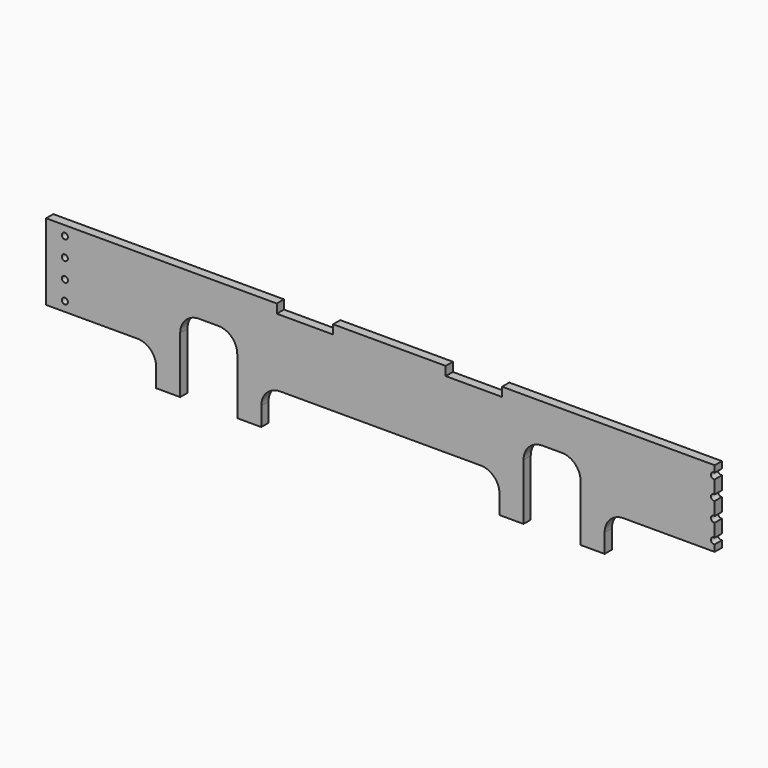
from build123d import *

# Parameters (mm, degrees)
F1_DEPTH = 12
F3_D     = 8
F4_W     = 75
F4_H     = 12
F5_DEPTH = 25


with BuildPart() as f1:
    # F0 (on Front) → F1 (new body)
    with BuildSketch(Plane.XZ):
        with BuildLine():
            Line((332.3978893597, 96.7937542379), (-558.0021106403, 96.7937542379))
            Line((-558.0021106403, 96.7937542379), (-558.0021106403, -4.8062457621))
            Line((-558.0021106403, -4.8062457621), (-436.4021106403, -4.8062457621))
            ThreePointArc((-436.4021106403, -4.8062457621), (-418.7244411107, -12.1285762324), (-411.4021106403, -29.8062457621))
            Line((-411.4021106403, -29.8062457621), (-411.4021106403, -54.8062457621))
            Line((-411.4021106403, -54.8062457621), (-379.4021106403, -54.8062457621))
            Line((-379.4021106403, -54.8062457621), (-379.4021106403, 20.1937542379))
            ThreePointArc((-379.4021106403, 20.1937542379), (-372.07978017, 37.8714237676), (-354.4021106403, 45.1937542379))
            Line((-354.4021106403, 45.1937542379), (-328.4021106403, 45.1937542379))
            ThreePointArc((-328.4021106403, 45.1937542379), (-310.7244411107, 37.8714237676), (-303.4021106403, 20.1937542379))
            Line((-303.4021106403, 20.1937542379), (-303.4021106403, -54.8062457621))
            Line((-303.4021106403, -54.8062457621), (-271.4021106403, -54.8062457621))
            Line((-271.4021106403, -54.8062457621), (-271.4021106403, -29.8062457621))
            ThreePointArc((-271.4021106403, -29.8062457621), (-264.07978017, -12.1285762324), (-246.4021106403, -4.8062457621))
            Line((-246.4021106403, -4.8062457621), (20.7978893597, -4.8062457621))
            ThreePointArc((20.7978893597, -4.8062457621), (38.4755588893, -12.1285762324), (45.7978893597, -29.8062457621))
            Line((45.7978893597, -29.8062457621), (45.7978893597, -54.8062457621))
            Line((45.7978893597, -54.8062457621), (77.7978893597, -54.8062457621))
            Line((77.7978893597, -54.8062457621), (77.7978893597, 20.1937542379))
            ThreePointArc((77.7978893597, 20.1937542379), (85.12021983, 37.8714237676), (102.7978893597, 45.1937542379))
            Line((102.7978893597, 45.1937542379), (128.7978893597, 45.1937542379))
            ThreePointArc((128.7978893597, 45.1937542379), (146.4755588893, 37.8714237676), (153.7978893597, 20.1937542379))
            Line((153.7978893597, 20.1937542379), (153.7978893597, -54.8062457621))
            Line((153.7978893597, -54.8062457621), (185.7978893597, -54.8062457621))
            Line((185.7978893597, -54.8062457621), (185.7978893597, -29.8062457621))
            ThreePointArc((185.7978893597, -29.8062457621), (193.12021983, -12.1285762324), (210.7978893597, -4.8062457621))
            Line((210.7978893597, -4.8062457621), (332.3978893597, -4.8062457621))
            Line((332.3978893597, -4.8062457621), (332.3978893597, 96.7937542379))
        make_face()
    extrude(amount=F1_DEPTH)

    # F3 (through all)
    with Locations(Plane.XZ.offset(12)):
        with Locations((-533.0021106403, 84.0937542379), (-533.0021106403, 58.6937542379), (-533.0021106403, 33.2937542379), (-533.0021106403, 7.8937542379), (331.3978893597, 84.0937542379), (331.3978893597, 58.6937542379), (331.3978893597, 33.2937542379), (331.3978893597, 7.8937542379)):
            Hole(F3_D / 2)

    # F4 (on face) → F5 (cut)
    with BuildSketch(Plane.XZ.offset(12)):
        with Locations((-213.3021106403, 90.7937542379)):
            Rectangle(F4_W, F4_H)
        with Locations((11.6978893597, 90.7937542379)):
            Rectangle(F4_W, F4_H)
    extrude(amount=-F5_DEPTH, mode=Mode.SUBTRACT)


solid = f1.part
